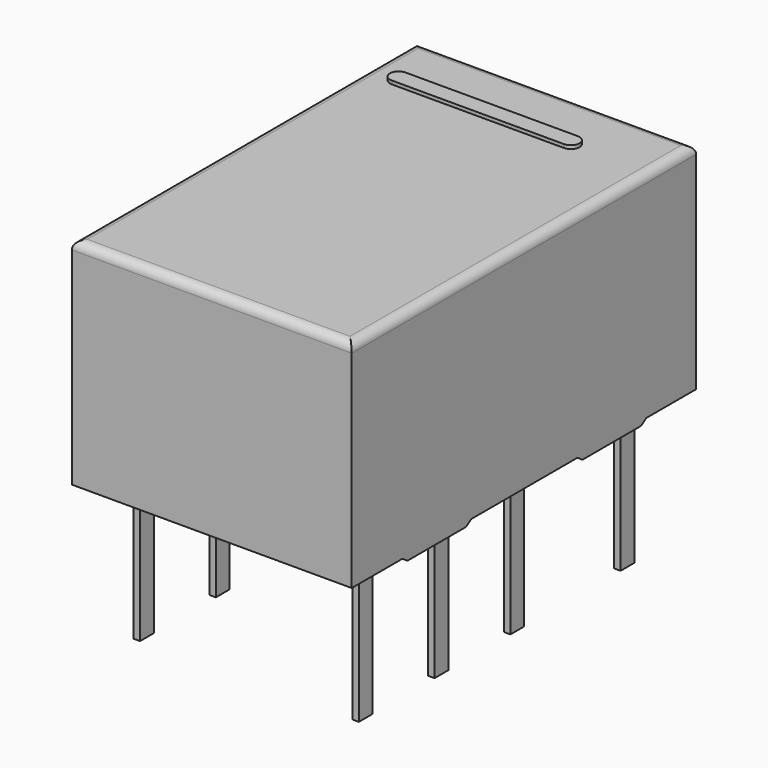
from build123d import *

# Parameters (mm, degrees)
PAD003_DEPTH = 0.3
PAD001_DEPTH = 0.18
SKETCH002_W  = 0.4
SKETCH002_H  = 0.15
PAD002_DEPTH = 3.5
SKETCH_W     = 10
SKETCH_H     = 6.5
PAD_DEPTH    = 5
POCKET_DEPTH = 0.5
FILLET_R     = 0.2
PAD004_DEPTH = 0.3


with BuildPart() as pad003:
    # Sketch005 → Pad003 (new body)
    with BuildSketch(Plane(origin=(-0.71, 1, 0), x_dir=(0, 1, 0), z_dir=(1, 0, 0))):
        Polygon((-7.33, 0.1), (-7.18, 0), (-5.48, 0), (-5.33, 0.1), align=None)
        Polygon((-2.25, 0.1), (-2.1, 0), (-0.4, 0), (-0.25, 0.1), align=None)
    extrude(amount=PAD003_DEPTH)


with BuildPart() as pad001:
    # Sketch001 → Pad001 (new body)
    with BuildSketch(Plane(origin=(0, 0, 5), x_dir=(0, -1, 0), z_dir=(0, 0, 1))):
        with BuildLine():
            Line((0.4, 0), (0.4, 4))
            ThreePointArc((0.4, 4), (0.2, 4.2), (0, 4))
            Line((0, 4), (0, 0))
            ThreePointArc((0, 0), (0.2, -0.2), (0.4, 0))
        make_face()
    extrude(amount=PAD001_DEPTH)


with BuildPart() as pad002:
    # Sketch002 → Pad002 (new body)
    with BuildSketch(Plane(origin=(0, 0, 0.25), x_dir=(0, -1, 0), z_dir=(0, 0, 1))):
        Rectangle(SKETCH002_W, SKETCH002_H)
        with Locations((3.2, 0)):
            Rectangle(SKETCH002_W, SKETCH002_H)
        with Locations((5.4, 0)):
            Rectangle(SKETCH002_W, SKETCH002_H)
        with Locations((7.6, 0)):
            Rectangle(SKETCH002_W, SKETCH002_H)
        with Locations((0, 5.08)):
            Rectangle(SKETCH002_W, SKETCH002_H)
        with Locations((3.2, 5.08)):
            Rectangle(SKETCH002_W, SKETCH002_H)
        with Locations((5.4, 5.08)):
            Rectangle(SKETCH002_W, SKETCH002_H)
        with Locations((7.6, 5.08)):
            Rectangle(SKETCH002_W, SKETCH002_H)
    extrude(amount=-PAD002_DEPTH)


with BuildPart() as fillet_body:
    # Sketch → Pad (new body)
    with BuildSketch(Plane(origin=(0, 0, 0.1), x_dir=(0, -1, 0), z_dir=(0, 0, 1))):
        with Locations((3.8, 2.54)):
            Rectangle(SKETCH_W, SKETCH_H)
    extrude(amount=PAD_DEPTH)

    # Sketch003 → Pocket (cut)
    with BuildSketch(Plane(origin=(0, 0, 5.1), x_dir=(0, -1, 0), z_dir=(0, 0, 1))):
        with BuildLine():
            ThreePointArc((-0.318267, 7.6), (0.223846, 7.813173), (0.45, 8.35))
            Line((0.45, 8.35), (-2.05, 8.35))
            Line((-2.05, 8.35), (-2.05, 7.6))
            Line((-2.05, 7.6), (-0.318267, 7.6))
        make_face()
        with BuildLine():
            Line((9.6, -0.75), (12.1, -0.75))
            Line((12.1, -0.75), (12.1, 0))
            Line((10.285847, 0), (12.1, 0))
            ThreePointArc((10.285847, 0), (9.797313, -0.241845), (9.6, -0.75))
        make_face()
    extrude(amount=-POCKET_DEPTH, mode=Mode.SUBTRACT)

    # Fillet
    fillet_edges = [fillet_body.edges().sort_by_distance(p)[0] for p in [
        (-0.71, -3.8, 5.1),
        (2.54, -8.8, 5.1),
        (5.79, -3.8, 5.1),
        (2.54, 1.2, 5.1),
    ]]
    fillet(fillet_edges, radius=FILLET_R)


with BuildPart() as obj1:
    # Sketch006 → Pad004 (new body)
    with BuildSketch(Plane.YZ.offset(5.79)):
        Polygon((-7.33, 0.1), (-7.18, 0), (-5.48, 0), (-5.33, 0.1), align=None)
        Polygon((-2.25, 0.1), (-2.1, 0), (-0.4, 0), (-0.25, 0.1), align=None)
    extrude(amount=-PAD004_DEPTH)

    add(pad003.part)
    add(pad001.part)
    add(pad002.part)
    add(fillet_body.part)


solid = obj1.part
